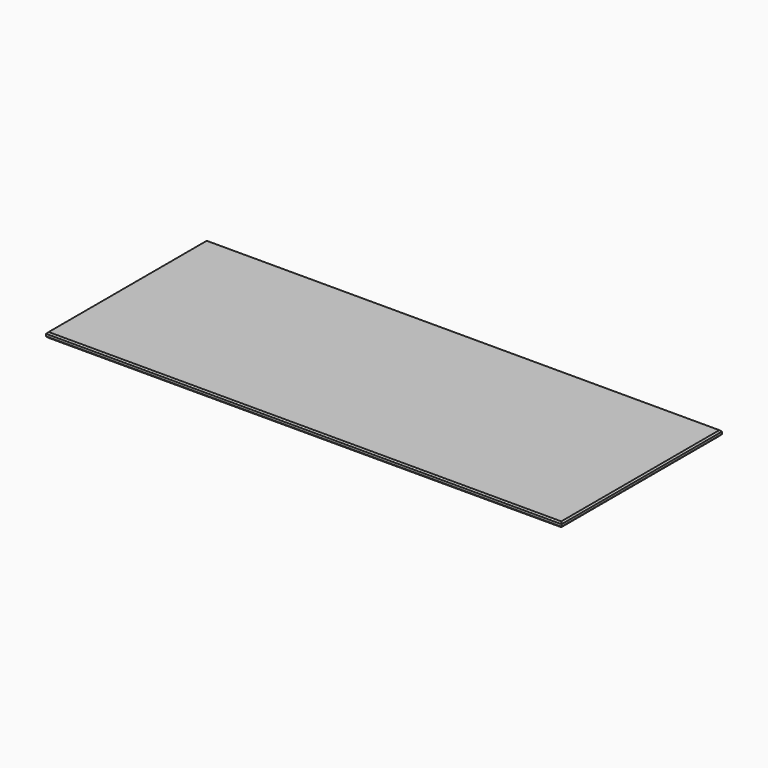
from build123d import *

# Parameters (mm, degrees)
F0_W     = 1800
F0_H     = 700
F1_DEPTH = 18
F2_SIZE  = 5
F3_SIZE  = 5


with BuildPart() as f1:
    # F0 (on Top) → F1 (new body)
    with BuildSketch(Plane.XY):
        Rectangle(F0_W, F0_H)
    extrude(amount=F1_DEPTH)

    # F2
    f2_edges = [f1.edges().sort_by_distance(p)[0] for p in [
        (900, 0, 18),
        (0, 350, 18),
        (-900, 0, 18),
        (0, -350, 18),
        (900, 0, 0),
        (0, 350, 0),
        (-900, 0, 0),
        (0, -350, 0),
    ]]
    chamfer(f2_edges, length=F2_SIZE)

    # F3
    f3_edges = [f1.edges().sort_by_distance(p)[0] for p in [
        (-900, 350, 9),
    ]]
    chamfer(f3_edges, length=F3_SIZE)


solid = f1.part
